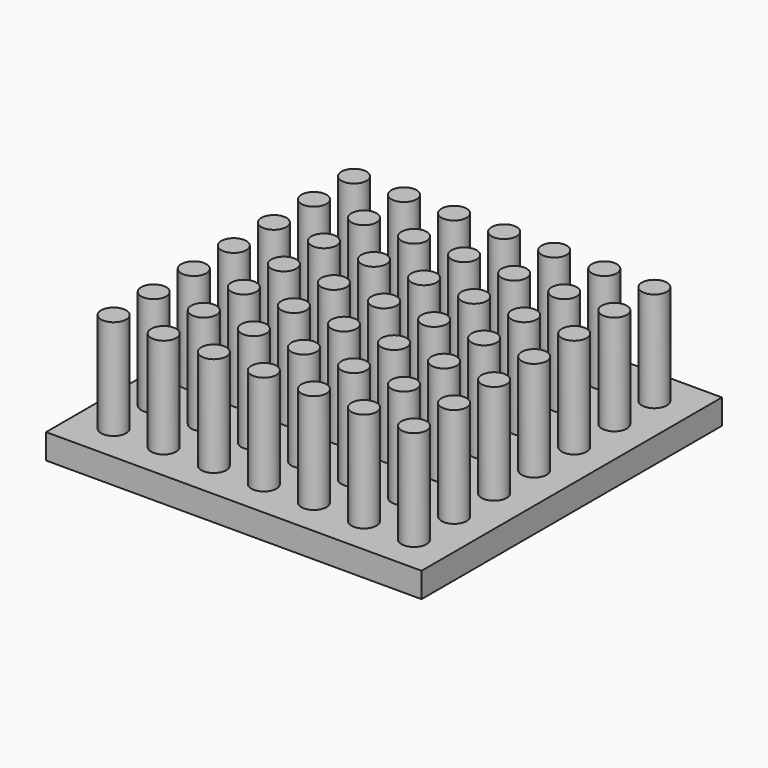
from build123d import *

# Parameters (mm, degrees)
F0_W     = 15
F0_H     = 15
F0_R     = 0.5
F1_DEPTH = 1
F2_DEPTH = 5


with BuildPart() as f1:
    # F0 (on Top) → F1 (new body)
    with BuildSketch(Plane.XY):
        Rectangle(F0_W, F0_H)
        with Locations((-6, -6)):
            Circle(F0_R, mode=Mode.SUBTRACT)
        with Locations((-4, -6)):
            Circle(F0_R, mode=Mode.SUBTRACT)
        with Locations((-6, -4)):
            Circle(F0_R, mode=Mode.SUBTRACT)
        with Locations((-4, -4)):
            Circle(F0_R, mode=Mode.SUBTRACT)
        with Locations((-2, -6)):
            Circle(F0_R, mode=Mode.SUBTRACT)
        with Locations((-2, -4)):
            Circle(F0_R, mode=Mode.SUBTRACT)
        with Locations((-6, -2)):
            Circle(F0_R, mode=Mode.SUBTRACT)
        with Locations((-4, -2)):
            Circle(F0_R, mode=Mode.SUBTRACT)
        with Locations((-2, -2)):
            Circle(F0_R, mode=Mode.SUBTRACT)
        with Locations((0, -6)):
            Circle(F0_R, mode=Mode.SUBTRACT)
        with Locations((2, -6)):
            Circle(F0_R, mode=Mode.SUBTRACT)
        with Locations((0, -4)):
            Circle(F0_R, mode=Mode.SUBTRACT)
        with Locations((2, -4)):
            Circle(F0_R, mode=Mode.SUBTRACT)
        with Locations((4, -6)):
            Circle(F0_R, mode=Mode.SUBTRACT)
        with Locations((6, -6)):
            Circle(F0_R, mode=Mode.SUBTRACT)
        with Locations((4, -4)):
            Circle(F0_R, mode=Mode.SUBTRACT)
        with Locations((6, -4)):
            Circle(F0_R, mode=Mode.SUBTRACT)
        with Locations((0, -2)):
            Circle(F0_R, mode=Mode.SUBTRACT)
        with Locations((2, -2)):
            Circle(F0_R, mode=Mode.SUBTRACT)
        with Locations((4, -2)):
            Circle(F0_R, mode=Mode.SUBTRACT)
        with Locations((6, -2)):
            Circle(F0_R, mode=Mode.SUBTRACT)
        with Locations((-6, 0)):
            Circle(F0_R, mode=Mode.SUBTRACT)
        with Locations((-4, 0)):
            Circle(F0_R, mode=Mode.SUBTRACT)
        with Locations((-6, 2)):
            Circle(F0_R, mode=Mode.SUBTRACT)
        with Locations((-4, 2)):
            Circle(F0_R, mode=Mode.SUBTRACT)
        with Locations((-2, 0)):
            Circle(F0_R, mode=Mode.SUBTRACT)
        with Locations((-2, 2)):
            Circle(F0_R, mode=Mode.SUBTRACT)
        with Locations((-6, 4)):
            Circle(F0_R, mode=Mode.SUBTRACT)
        with Locations((-4, 4)):
            Circle(F0_R, mode=Mode.SUBTRACT)
        with Locations((-6, 6)):
            Circle(F0_R, mode=Mode.SUBTRACT)
        with Locations((-4, 6)):
            Circle(F0_R, mode=Mode.SUBTRACT)
        with Locations((-2, 4)):
            Circle(F0_R, mode=Mode.SUBTRACT)
        with Locations((-2, 6)):
            Circle(F0_R, mode=Mode.SUBTRACT)
        Circle(F0_R, mode=Mode.SUBTRACT)
        with Locations((2, 0)):
            Circle(F0_R, mode=Mode.SUBTRACT)
        with Locations((0, 2)):
            Circle(F0_R, mode=Mode.SUBTRACT)
        with Locations((2, 2)):
            Circle(F0_R, mode=Mode.SUBTRACT)
        with Locations((4, 0)):
            Circle(F0_R, mode=Mode.SUBTRACT)
        with Locations((6, 0)):
            Circle(F0_R, mode=Mode.SUBTRACT)
        with Locations((4, 2)):
            Circle(F0_R, mode=Mode.SUBTRACT)
        with Locations((6, 2)):
            Circle(F0_R, mode=Mode.SUBTRACT)
        with Locations((0, 4)):
            Circle(F0_R, mode=Mode.SUBTRACT)
        with Locations((2, 4)):
            Circle(F0_R, mode=Mode.SUBTRACT)
        with Locations((0, 6)):
            Circle(F0_R, mode=Mode.SUBTRACT)
        with Locations((2, 6)):
            Circle(F0_R, mode=Mode.SUBTRACT)
        with Locations((4, 4)):
            Circle(F0_R, mode=Mode.SUBTRACT)
        with Locations((6, 4)):
            Circle(F0_R, mode=Mode.SUBTRACT)
        with Locations((4, 6)):
            Circle(F0_R, mode=Mode.SUBTRACT)
        with Locations((6, 6)):
            Circle(F0_R, mode=Mode.SUBTRACT)
    extrude(amount=F1_DEPTH)

    # F0 (on Top) → F2 (join)
    with BuildSketch(Plane.XY):
        with Locations((-6, 6)):
            Circle(F0_R)
        with Locations((-4, 6)):
            Circle(F0_R)
        with Locations((-2, 6)):
            Circle(F0_R)
        with Locations((0, 6)):
            Circle(F0_R)
        with Locations((2, 6)):
            Circle(F0_R)
        with Locations((4, 6)):
            Circle(F0_R)
        with Locations((6, 6)):
            Circle(F0_R)
        with Locations((6, 4)):
            Circle(F0_R)
        with Locations((4, 4)):
            Circle(F0_R)
        with Locations((2, 4)):
            Circle(F0_R)
        with Locations((0, 4)):
            Circle(F0_R)
        with Locations((-2, 4)):
            Circle(F0_R)
        with Locations((-4, 4)):
            Circle(F0_R)
        with Locations((-6, 4)):
            Circle(F0_R)
        with Locations((-6, 2)):
            Circle(F0_R)
        with Locations((-4, 2)):
            Circle(F0_R)
        with Locations((-2, 2)):
            Circle(F0_R)
        with Locations((0, 2)):
            Circle(F0_R)
        with Locations((2, 2)):
            Circle(F0_R)
        with Locations((4, 2)):
            Circle(F0_R)
        with Locations((6, 2)):
            Circle(F0_R)
        with Locations((6, 0)):
            Circle(F0_R)
        with Locations((4, 0)):
            Circle(F0_R)
        with Locations((2, 0)):
            Circle(F0_R)
        Circle(F0_R)
        with Locations((-2, 0)):
            Circle(F0_R)
        with Locations((-4, 0)):
            Circle(F0_R)
        with Locations((-6, 0)):
            Circle(F0_R)
        with Locations((-6, -2)):
            Circle(F0_R)
        with Locations((-4, -2)):
            Circle(F0_R)
        with Locations((-2, -2)):
            Circle(F0_R)
        with Locations((0, -2)):
            Circle(F0_R)
        with Locations((2, -2)):
            Circle(F0_R)
        with Locations((4, -2)):
            Circle(F0_R)
        with Locations((6, -2)):
            Circle(F0_R)
        with Locations((6, -4)):
            Circle(F0_R)
        with Locations((4, -4)):
            Circle(F0_R)
        with Locations((2, -4)):
            Circle(F0_R)
        with Locations((0, -4)):
            Circle(F0_R)
        with Locations((-2, -4)):
            Circle(F0_R)
        with Locations((-4, -4)):
            Circle(F0_R)
        with Locations((-6, -4)):
            Circle(F0_R)
        with Locations((-6, -6)):
            Circle(F0_R)
        with Locations((-4, -6)):
            Circle(F0_R)
        with Locations((-2, -6)):
            Circle(F0_R)
        with Locations((0, -6)):
            Circle(F0_R)
        with Locations((2, -6)):
            Circle(F0_R)
        with Locations((4, -6)):
            Circle(F0_R)
        with Locations((6, -6)):
            Circle(F0_R)
    extrude(amount=F2_DEPTH)


solid = f1.part
